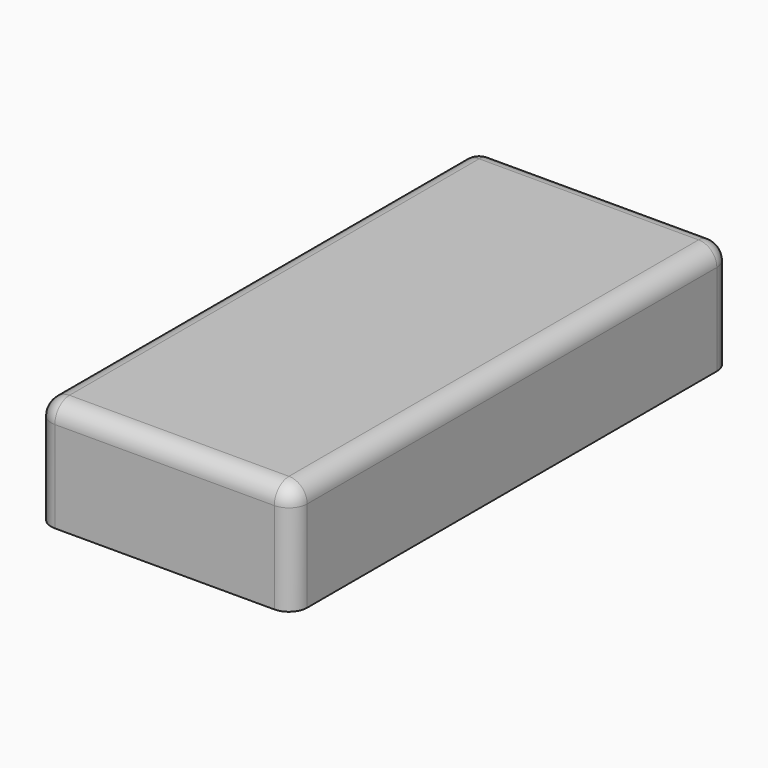
from build123d import *

# Parameters (mm, degrees)
SKETCH_W  = 1.4
SKETCH_H  = 3
PAD_DEPTH = 0.6
FILLET_R  = 0.1


with BuildPart() as part:
    # Sketch → Pad (new body)
    with BuildSketch(Plane.XY):
        Rectangle(SKETCH_W, SKETCH_H)
    extrude(amount=PAD_DEPTH)

    # Fillet
    fillet_edges = [part.edges().sort_by_distance(p)[0] for p in [
        (-0.7, 1.5, 0.3),
        (0, 1.5, 0.6),
        (-0.7, 0, 0.6),
        (0.7, 1.5, 0.3),
        (0.7, 0, 0.6),
        (0, -1.5, 0.6),
        (0.7, -1.5, 0.3),
        (-0.7, -1.5, 0.3),
    ]]
    fillet(fillet_edges, radius=FILLET_R)


solid = part.part
